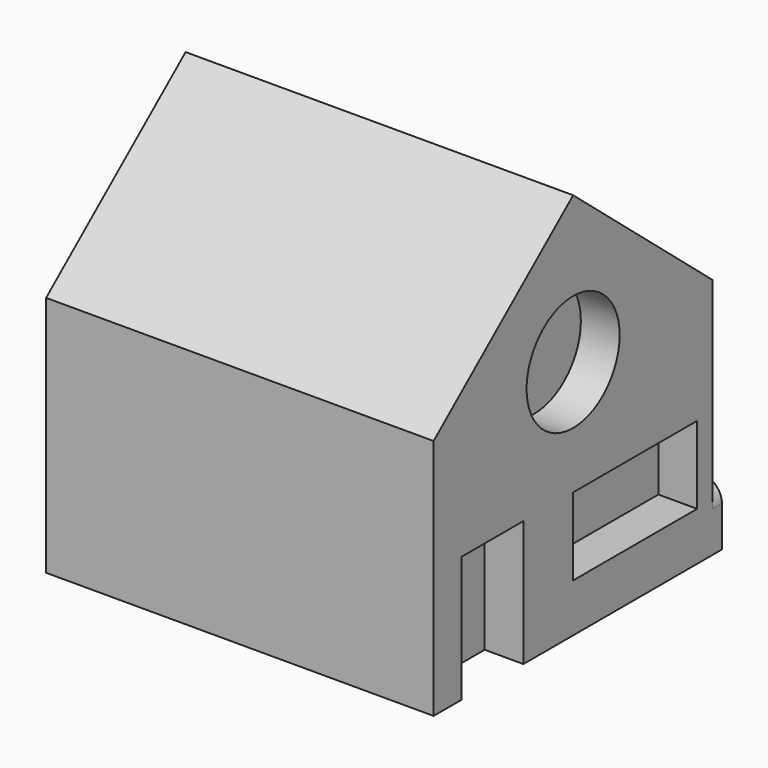
from build123d import *

# Parameters (mm, degrees)
F0_W     = 22.86
F0_H     = 15.864736
F1_DEPTH = 12.7
F2_W     = 5.08
F2_H     = 8.253078
F2_W_2   = 10.16
F2_H_2   = 5.08
F2_R     = 3.81
F3_DEPTH = 2.54
F5_DEPTH = 0.762


with BuildPart() as f1:
    # F0 (on Right) → F1 (new body, symmetric)
    with BuildSketch(Plane.YZ):
        Polygon((0, 17.146922), (-11.43, 7.611658), (11.43, 7.611658), align=None)
        with Locations((0, -0.32071)):
            Rectangle(F0_W, F0_H)
    extrude(amount=F1_DEPTH, both=True)

    # F2 (on face) → F3 (cut)
    with BuildSketch(Plane.YZ.offset(12.7)):
        with Locations((-6.611706, -4.126539)):
            Rectangle(F2_W, F2_H)
        with Locations((5.08, -2.54)):
            Rectangle(F2_W_2, F2_H_2)
        with Locations((0, 7.521919)):
            Circle(F2_R)
    extrude(amount=-F3_DEPTH, mode=Mode.SUBTRACT)

    # F4 (on face) → F5 (join)
    with BuildSketch(Plane(origin=(0, 11.43, 0), x_dir=(-1, 0, 0), z_dir=(0, 1, 0))):
        with BuildLine():
            Line((-5.059074, -4.322298), (-11.43, -4.322298))
            ThreePointArc((-11.43, -4.322298), (-12.328026, -4.694272), (-12.7, -5.592298))
            Line((-12.7, -5.592298), (-12.7, -8.253078))
            Line((-12.7, -8.253078), (-6.329074, -8.253078))
            Line((-6.329074, -8.253078), (-6.329074, -5.592298))
            ThreePointArc((-6.329074, -5.592298), (-5.9571, -4.694272), (-5.059074, -4.322298))
        make_face()
        with BuildLine():
            Line((-3.246726, -4.322298), (-5.059074, -4.322298))
            ThreePointArc((-5.059074, -4.322298), (-5.9571, -4.694272), (-6.329074, -5.592298))
            Line((-6.329074, -5.592298), (-6.329074, -8.253078))
            Line((-6.329074, -8.253078), (-1.976726, -8.253078))
            Line((-1.976726, -8.253078), (-1.976726, -5.592298))
            ThreePointArc((-1.976726, -5.592298), (-2.3487, -4.694272), (-3.246726, -4.322298))
        make_face()
        with BuildLine():
            Line((-3.2258, -4.322298), (-3.246726, -4.322298))
            ThreePointArc((-3.246726, -4.322298), (-2.3487, -4.694272), (-1.976726, -5.592298))
            Line((-1.976726, -5.592298), (-1.976726, -8.253078))
            Line((-1.976726, -8.253078), (-1.9558, -8.253078))
            Line((-1.9558, -8.253078), (-1.9558, -5.592298))
            ThreePointArc((-1.9558, -5.592298), (-2.327774, -4.694272), (-3.2258, -4.322298))
        make_face()
        with BuildLine():
            Line((3.246726, -4.322298), (3.2258, -4.322298))
            ThreePointArc((3.2258, -4.322298), (2.327774, -4.694272), (1.9558, -5.592298))
            Line((1.9558, -5.592298), (1.9558, -8.253078))
            Line((1.9558, -8.253078), (1.976726, -8.253078))
            Line((1.976726, -8.253078), (1.976726, -5.592298))
            ThreePointArc((1.976726, -5.592298), (2.3487, -4.694272), (3.246726, -4.322298))
        make_face()
        with BuildLine():
            Line((5.059074, -4.322298), (3.246726, -4.322298))
            ThreePointArc((3.246726, -4.322298), (2.3487, -4.694272), (1.976726, -5.592298))
            Line((1.976726, -5.592298), (1.976726, -8.253078))
            Line((1.976726, -8.253078), (6.329074, -8.253078))
            Line((6.329074, -8.253078), (6.329074, -5.592298))
            ThreePointArc((6.329074, -5.592298), (5.9571, -4.694272), (5.059074, -4.322298))
        make_face()
        with BuildLine():
            Line((11.43, -4.322298), (5.059074, -4.322298))
            ThreePointArc((5.059074, -4.322298), (5.9571, -4.694272), (6.329074, -5.592298))
            Line((6.329074, -5.592298), (6.329074, -8.253078))
            Line((6.329074, -8.253078), (12.7, -8.253078))
            Line((12.7, -8.253078), (12.7, -5.592298))
            ThreePointArc((12.7, -5.592298), (12.328026, -4.694272), (11.43, -4.322298))
        make_face()
    extrude(amount=F5_DEPTH)


solid = f1.part
